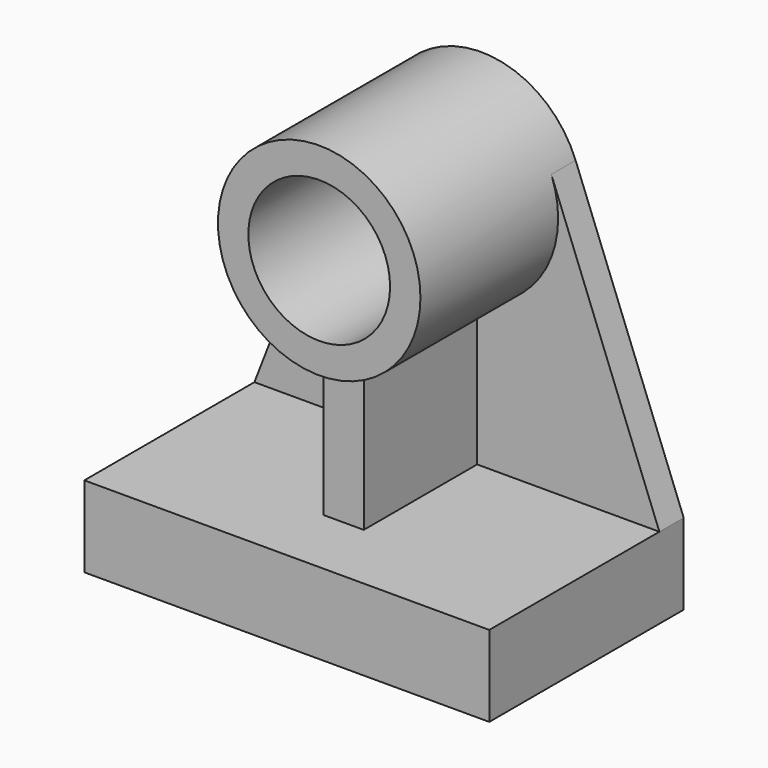
from build123d import *

# Parameters (mm, degrees)
F1_DEPTH = 152.4
F2_R     = 63.5
F2_R_2   = 44.45
F3_DEPTH = 127
F5_DEPTH = 107.95
F7_DEPTH = 19.05


with BuildPart() as f1:
    # F0 (on Front) → F1 (new body)
    with BuildSketch(Plane.XZ):
        Polygon((-127, -25.4), (127, -25.4), (127, 25.4), (9.525, 25.4), (-9.525, 25.4), (-127, 25.4), align=None)
    extrude(amount=F1_DEPTH)


with BuildPart() as f3:
    # F2 (on Front) → F3 (new body)
    with BuildSketch(Plane.XZ):
        with Locations((0, 177.8)):
            Circle(F2_R)
        with Locations((0, 177.8)):
            Circle(F2_R_2, mode=Mode.SUBTRACT)
    extrude(amount=F3_DEPTH)


with BuildPart() as f5:
    # F4 (on Front) → F5 (new body)
    with BuildSketch(Plane.XZ):
        with BuildLine():
            Line((-12.7, 115.582961), (-12.7, 25.4))
            Line((-12.7, 25.4), (12.7, 25.4))
            Line((12.7, 25.4), (12.7, 115.582961))
            ThreePointArc((12.7, 115.582961), (0, 114.3), (-12.7, 115.582961))
        make_face()
    extrude(amount=F5_DEPTH)


with BuildPart() as f7:
    # F6 (on Front) → F7 (new body)
    with BuildSketch(Plane.XZ):
        with BuildLine():
            ThreePointArc((59.227747, 200.698122), (62.4228, 189.446632), (63.5, 177.8))
            ThreePointArc((63.5, 177.8), (-11.646632, 115.3772), (-59.227747, 200.698122))
            Line((-59.227747, 200.698122), (-127, 25.4))
            Line((-127, 25.4), (127, 25.4))
            Line((127, 25.4), (59.227747, 200.698122))
        make_face()
    extrude(amount=F7_DEPTH)


solid = Compound([f1.part, f3.part, f5.part, f7.part])
